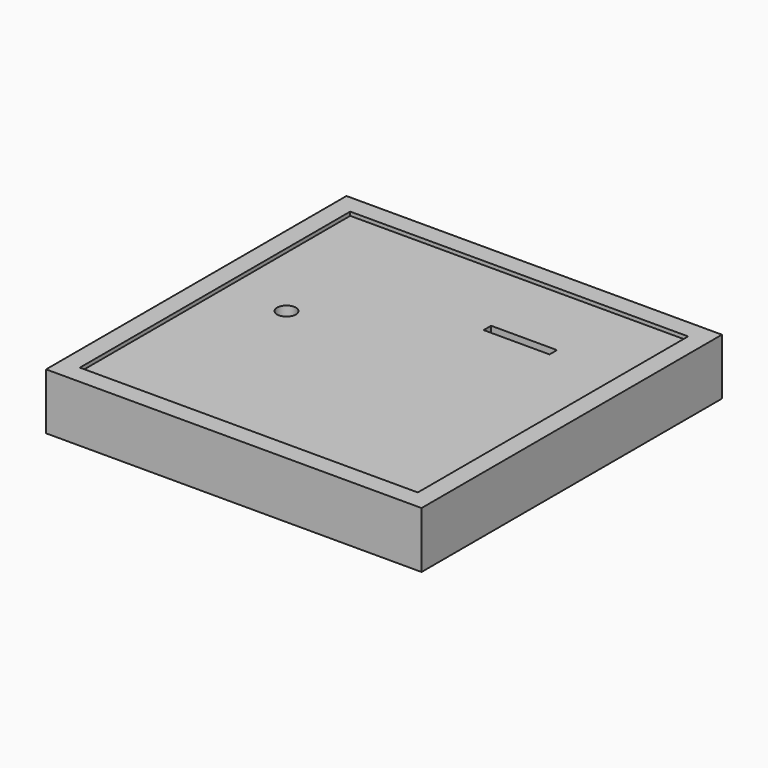
from build123d import *

# Parameters (mm, degrees)
F0_W     = 50.8
F0_H     = 50.8
F1_DEPTH = 7.62
F2_T     = -2.54
F5_DEPTH = 25.4
F7_R     = 1.27
F7_W     = 8.9154
F7_H     = 1.27
F8_DEPTH = 4.572


with BuildPart() as f1:
    # F0 (on Top) → F1 (new body)
    with BuildSketch(Plane.XY):
        with Locations((25.4, 25.4)):
            Rectangle(F0_W, F0_H)
    extrude(amount=F1_DEPTH)

    # F2
    f2_openings = [f1.faces().sort_by_distance(p)[0] for p in [
        (25.4, 25.4, 7.62),
    ]]
    offset(amount=F2_T, openings=f2_openings)

    # F4 (on face) → F5 (cut)
    with BuildSketch(Plane.XY.offset(2.54)):
        with BuildLine():
            ThreePointArc((3.7855220646, 5.0770083749), (4.1574964525, 4.1789827628), (5.0555220646, 3.8070083749))
            Line((5.0555220646, 3.8070083749), (5.0555220646, 5.0770083749))
            Line((5.0555220646, 5.0770083749), (3.7855220646, 5.0770083749))
        make_face()
        with BuildLine():
            Line((5.0555220646, 5.0770083749), (5.0555220646, 3.8070083749))
            ThreePointArc((5.0555220646, 3.8070083749), (5.9535476767, 4.1789827628), (6.3255220646, 5.0770083749))
            ThreePointArc((6.3255220646, 5.0770083749), (5.0555220646, 6.3470083749), (3.7855220646, 5.0770083749))
            Line((3.7855220646, 5.0770083749), (5.0555220646, 5.0770083749))
        make_face()
    extrude(amount=-F5_DEPTH, mode=Mode.SUBTRACT)

    # F7 (on face) → F8 (join)
    with BuildSketch(Plane.XY.offset(2.54)):
        Polygon((48.26, 2.54), (48.26, 48.26), (2.54, 48.26), (2.54, 2.54), (7.62, 2.54), align=None)
        with Locations((10.8913211152, 27.047118172)):
            Circle(F7_R, mode=Mode.SUBTRACT)
        with Locations((34.3299443565, 37.2895654833)):
            Rectangle(F7_W, F7_H, mode=Mode.SUBTRACT)
    extrude(amount=F8_DEPTH)


solid = f1.part
